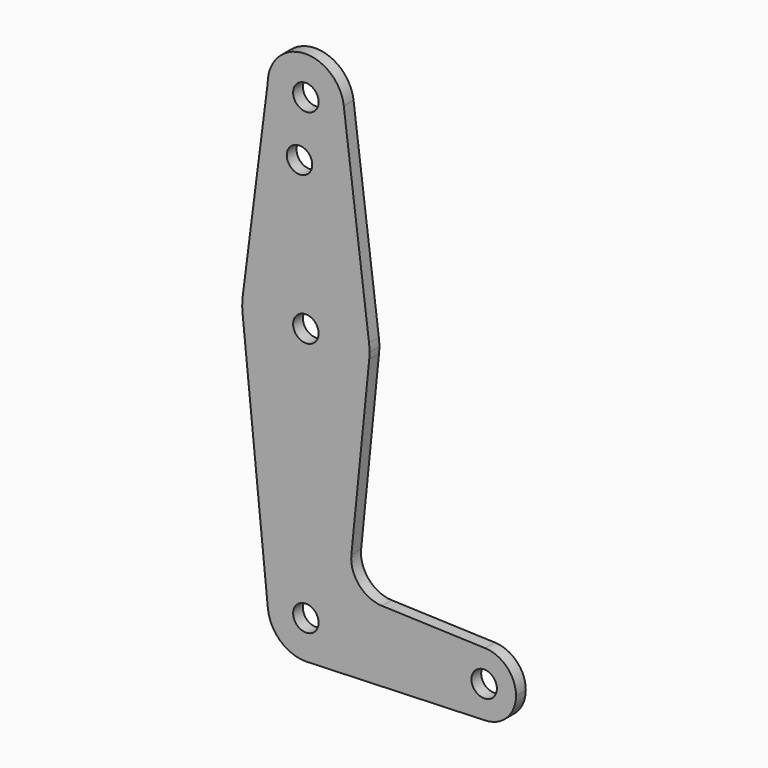
from build123d import *

# Parameters (mm, degrees)
F0_R     = 3.175
F1_DEPTH = 3.048
F2_DEPTH = 3.048


with BuildPart() as f1:
    # F0 (on Front) → F1 (new body)
    with BuildSketch(Plane.XZ):
        with BuildLine():
            ThreePointArc((-9.525, 114.3), (0, 104.775), (9.525, 114.3))
            ThreePointArc((9.525, 114.3), (9.506305, 114.896483), (9.450293, 115.490625))
            ThreePointArc((9.450293, 115.490625), (-0.596483, 123.806305), (-9.525, 114.3))
        make_face()
        with Locations((0, 114.3)):
            Circle(F0_R, mode=Mode.SUBTRACT)
        with BuildLine():
            ThreePointArc((9.450293, 115.490625), (9.506305, 114.896483), (9.525, 114.3))
            ThreePointArc((9.525, 114.3), (0, 104.775), (-9.525, 114.3))
            Line((-9.525, 114.3), (-15.747457, 65.508289))
            ThreePointArc((-15.747457, 65.508289), (0.012053, 79.374995), (15.750488, 65.484375))
            Line((15.750488, 65.484375), (9.450293, 115.490625))
        make_face()
        with Locations((-1.5875, 100.0252)):
            Circle(F0_R, mode=Mode.SUBTRACT)
        with BuildLine():
            ThreePointArc((15.875, 63.5), (15.843841, 64.494139), (15.750488, 65.484375))
            ThreePointArc((15.750488, 65.484375), (0.012053, 79.374995), (-15.747457, 65.508289))
            ThreePointArc((-15.747457, 65.508289), (-15.873588, 63.711757), (-15.795426, 61.9125))
            ThreePointArc((-15.795426, 61.9125), (0, 47.625), (15.795426, 61.9125))
            ThreePointArc((15.795426, 61.9125), (15.855094, 62.705253), (15.875, 63.5))
        make_face()
        with Locations((0, 63.5)):
            Circle(F0_R, mode=Mode.SUBTRACT)
        with BuildLine():
            ThreePointArc((15.795426, 61.9125), (0, 47.625), (-15.795426, 61.9125))
            Line((-15.795426, 61.9125), (-9.477255, -0.9525))
            ThreePointArc((-9.477255, -0.9525), (-0.476848, 9.513056), (9.525, 0))
            ThreePointArc((9.525, 0), (6.970557, -6.491299), (0.677344, -9.500886))
            Line((0.677344, -9.500886), (44.732405, -7.932475))
            ThreePointArc((44.732405, -7.932475), (36.5125, 0.000539), (44.733482, 7.932436))
            Line((44.733482, 7.932436), (18.9676, 8.853234))
            ThreePointArc((18.9676, 8.853234), (13.2612, 11.571359), (11.341187, 17.593382))
            Line((11.341187, 17.593382), (15.795426, 61.9125))
        make_face()
        with BuildLine():
            ThreePointArc((9.525, 0), (-0.476848, 9.513056), (-9.477255, -0.9525))
            ThreePointArc((-9.477255, -0.9525), (-6.389564, -7.063929), (0, -9.525))
            Line((0, -9.525), (0.677344, -9.500886))
            ThreePointArc((0.677344, -9.500886), (6.970557, -6.491299), (9.525, 0))
        make_face()
        Circle(F0_R, mode=Mode.SUBTRACT)
        with BuildLine():
            Line((0.677344, -9.500886), (0, -9.525))
            ThreePointArc((0, -9.525), (0.338886, -9.51897), (0.677344, -9.500886))
        make_face()
        with BuildLine():
            ThreePointArc((52.3875, 0), (50.162007, 5.511523), (44.733482, 7.932436))
            ThreePointArc((44.733482, 7.932436), (36.5125, 0.000539), (44.732405, -7.932475))
            ThreePointArc((44.732405, -7.932475), (50.161633, -5.51191), (52.3875, 0))
        make_face()
        with Locations((44.45, 0)):
            Circle(F0_R, mode=Mode.SUBTRACT)
    extrude(amount=F1_DEPTH)


with BuildPart() as f2:
    # F0 (on Front) → F2 (new body)
    with BuildSketch(Plane.XZ):
        with BuildLine():
            ThreePointArc((-9.525, 114.3), (0, 104.775), (9.525, 114.3))
            ThreePointArc((9.525, 114.3), (9.506305, 114.896483), (9.450293, 115.490625))
            ThreePointArc((9.450293, 115.490625), (-0.596483, 123.806305), (-9.525, 114.3))
        make_face()
        with Locations((0, 114.3)):
            Circle(F0_R, mode=Mode.SUBTRACT)
        with BuildLine():
            ThreePointArc((9.450293, 115.490625), (9.506305, 114.896483), (9.525, 114.3))
            ThreePointArc((9.525, 114.3), (0, 104.775), (-9.525, 114.3))
            Line((-9.525, 114.3), (-15.747457, 65.508289))
            ThreePointArc((-15.747457, 65.508289), (0.012053, 79.374995), (15.750488, 65.484375))
            Line((15.750488, 65.484375), (9.450293, 115.490625))
        make_face()
        with Locations((-1.5875, 100.0252)):
            Circle(F0_R, mode=Mode.SUBTRACT)
        with BuildLine():
            ThreePointArc((15.875, 63.5), (15.843841, 64.494139), (15.750488, 65.484375))
            ThreePointArc((15.750488, 65.484375), (0.012053, 79.374995), (-15.747457, 65.508289))
            ThreePointArc((-15.747457, 65.508289), (-15.873588, 63.711757), (-15.795426, 61.9125))
            ThreePointArc((-15.795426, 61.9125), (0, 47.625), (15.795426, 61.9125))
            ThreePointArc((15.795426, 61.9125), (15.855094, 62.705253), (15.875, 63.5))
        make_face()
        with Locations((0, 63.5)):
            Circle(F0_R, mode=Mode.SUBTRACT)
        with BuildLine():
            ThreePointArc((15.795426, 61.9125), (0, 47.625), (-15.795426, 61.9125))
            Line((-15.795426, 61.9125), (-9.477255, -0.9525))
            ThreePointArc((-9.477255, -0.9525), (-0.476848, 9.513056), (9.525, 0))
            ThreePointArc((9.525, 0), (6.970557, -6.491299), (0.677344, -9.500886))
            Line((0.677344, -9.500886), (44.732405, -7.932475))
            ThreePointArc((44.732405, -7.932475), (36.5125, 0.000539), (44.733482, 7.932436))
            Line((44.733482, 7.932436), (18.9676, 8.853234))
            ThreePointArc((18.9676, 8.853234), (13.2612, 11.571359), (11.341187, 17.593382))
            Line((11.341187, 17.593382), (15.795426, 61.9125))
        make_face()
        with BuildLine():
            ThreePointArc((9.525, 0), (-0.476848, 9.513056), (-9.477255, -0.9525))
            ThreePointArc((-9.477255, -0.9525), (-6.389564, -7.063929), (0, -9.525))
            Line((0, -9.525), (0.677344, -9.500886))
            ThreePointArc((0.677344, -9.500886), (6.970557, -6.491299), (9.525, 0))
        make_face()
        Circle(F0_R, mode=Mode.SUBTRACT)
        with BuildLine():
            Line((0.677344, -9.500886), (0, -9.525))
            ThreePointArc((0, -9.525), (0.338886, -9.51897), (0.677344, -9.500886))
        make_face()
        with BuildLine():
            ThreePointArc((52.3875, 0), (50.162007, 5.511523), (44.733482, 7.932436))
            ThreePointArc((44.733482, 7.932436), (36.5125, 0.000539), (44.732405, -7.932475))
            ThreePointArc((44.732405, -7.932475), (50.161633, -5.51191), (52.3875, 0))
        make_face()
        with Locations((44.45, 0)):
            Circle(F0_R, mode=Mode.SUBTRACT)
    extrude(amount=F2_DEPTH)


solid = Compound([f1.part, f2.part])
